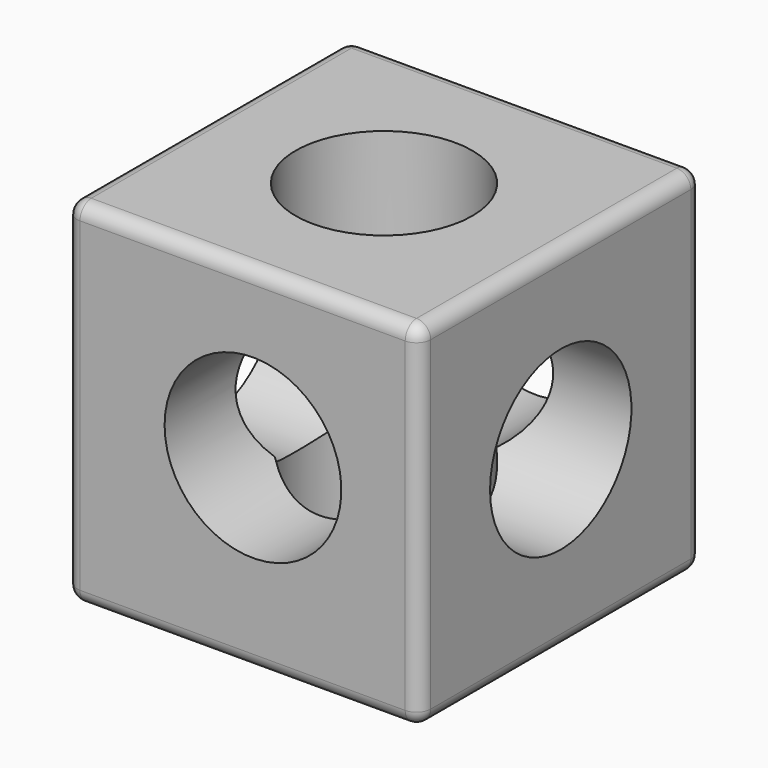
from build123d import *

# Parameters (mm, degrees)
F0_W     = 127
F0_H     = 127
F1_DEPTH = 127
F2_R     = 31.75
F3_DEPTH = 127.001
F4_R     = 31.75
F5_DEPTH = 127.001
F6_R     = 31.75
F7_DEPTH = 127.001
F8_R     = 5.08


with BuildPart() as f1:
    # F0 (on Front) → F1 (new body)
    with BuildSketch(Plane.XZ):
        with Locations((-3.724862, -17.439142)):
            Rectangle(F0_W, F0_H)
    extrude(amount=F1_DEPTH)

    # F2 (on face) → F3 (cut, through all)
    with BuildSketch(Plane.XY.offset(46.060858)):
        with Locations((-3.724862, -63.5)):
            Circle(F2_R)
    extrude(amount=-F3_DEPTH, mode=Mode.SUBTRACT)

    # F4 (on face) → F5 (cut, through all)
    with BuildSketch(Plane(origin=(0, 0, 0), x_dir=(-1, 0, 0), z_dir=(0, 1, 0))):
        with Locations((0, -13.71428)):
            Circle(F4_R)
    extrude(amount=-F5_DEPTH, mode=Mode.SUBTRACT)

    # F6 (on face) → F7 (cut, through all)
    with BuildSketch(Plane(origin=(-67.224862, 0, 0), x_dir=(0, -1, 0), z_dir=(-1, 0, 0))):
        with Locations((63.5, -17.439142)):
            Circle(F6_R)
    extrude(amount=-F7_DEPTH, mode=Mode.SUBTRACT)

    # F8
    f8_edges = [f1.edges().sort_by_distance(p)[0] for p in [
        (-3.724862, -127, -80.939142),
        (59.775138, -127, -17.439142),
        (-67.224862, -127, -17.439142),
        (-3.724862, -127, 46.060858),
        (-67.224862, -63.5, 46.060858),
        (-67.224862, 0, -17.439142),
        (-3.724862, 0, 46.060858),
        (-67.224862, -63.5, -80.939142),
        (59.775138, -63.5, -80.939142),
        (59.775138, 0, -17.439142),
        (-3.724862, 0, -80.939142),
        (59.775138, -63.5, 46.060858),
    ]]
    fillet(f8_edges, radius=F8_R)


solid = f1.part
